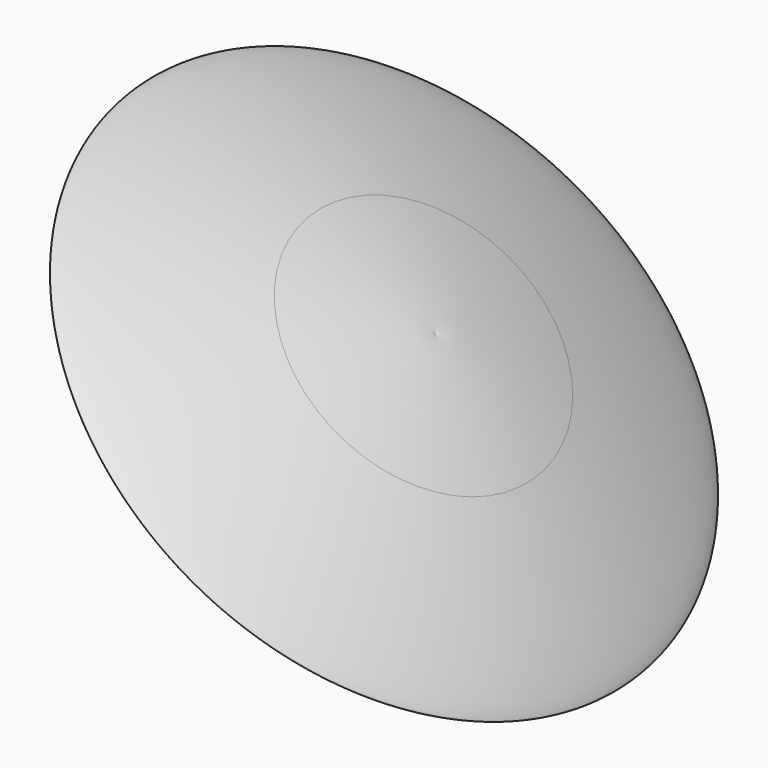
from build123d import *


with BuildPart() as f1:
    # F0 (on Front) → F1 (revolve)
    with BuildSketch(Plane.XZ):
        with BuildLine():
            add(Edge.make_bspline(
                [(28.3752667298, -18.2336055812), (28.5576422906, -16.674923196), (15.4123778535, -7.6820567145), (0, 0)],
                knots=[0.7751486832, 0.7751486832, 0.7751486832, 0.7751486832, 1, 1, 1, 1], degree=3))
            Line((0, 0), (-7.9829249975, -2.827608394))
            add(Edge.make_bspline(
                [(-7.9829249975, -2.827608394), (8.8582287699, -11.0535195931), (26.34532413, -19.1599334816), (28.2109191841, -18.4266486858)],
                knots=[0.5209182554, 0.5209182554, 0.5209182554, 0.5209182554, 0.7622753346, 0.7622753346, 0.7622753346, 0.7622753346], degree=3))
            Line((28.2109191841, -18.4266486858), (28.3752667298, -18.2336055812))
        make_face()
        with BuildLine():
            Line((-7.9829249975, -2.827608394), (0, 0))
            add(Edge.make_bspline(
                [(0, 0), (-18.3129079586, 9.1277802089), (-58.0262297503, 22.5611489773), (-27.5463307837, 6.7805226556), (-9.9184093501, -1.8822383421), (-7.9829249975, -2.827608394)],
                knots=[0, 0, 0, 0, 0.2671671761, 0.4931800816, 0.5209182554, 0.5209182554, 0.5209182554, 0.5209182554], degree=3))
        make_face()
    revolve(axis=Axis((28.5894330591, 0, -17.9820451885), (-0.6482456723, 0, -0.7614312499)))


solid = f1.part
